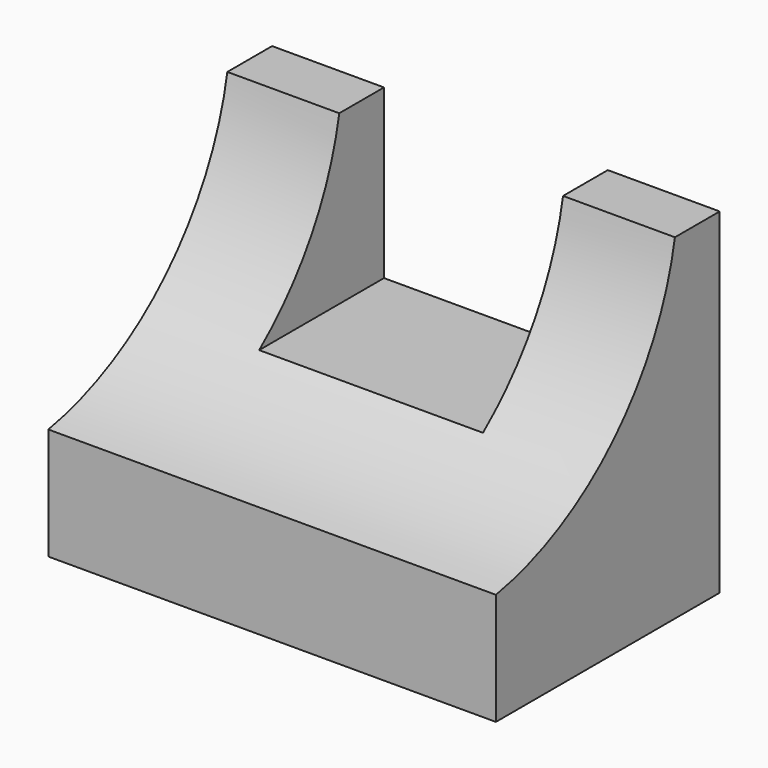
from build123d import *

# Parameters (mm, degrees)
F1_DEPTH = 50.8
F2_W     = 25.4
F2_H     = 19.05
F3_DEPTH = 31.751


with BuildPart() as f1:
    # F0 (on Right) → F1 (new body)
    with BuildSketch(Plane.YZ):
        with BuildLine():
            Line((-15.307553, 14.281522), (-15.307553, 52.381522))
            Line((-15.307553, 52.381522), (-21.657553, 52.381522))
            ThreePointArc((-21.657553, 52.381522), (-30.371168, 35.695138), (-47.057553, 26.981522))
            Line((-47.057553, 26.981522), (-47.057553, 14.281522))
            Line((-47.057553, 14.281522), (-15.307553, 14.281522))
        make_face()
    extrude(amount=F1_DEPTH)

    # F2 (on face) → F3 (cut, through all)
    with BuildSketch(Plane(origin=(0, -15.307553, 0), x_dir=(-1, 0, 0), z_dir=(0, 1, 0))):
        with Locations((-25.4, 42.856522)):
            Rectangle(F2_W, F2_H)
    extrude(amount=-F3_DEPTH, mode=Mode.SUBTRACT)


solid = f1.part
